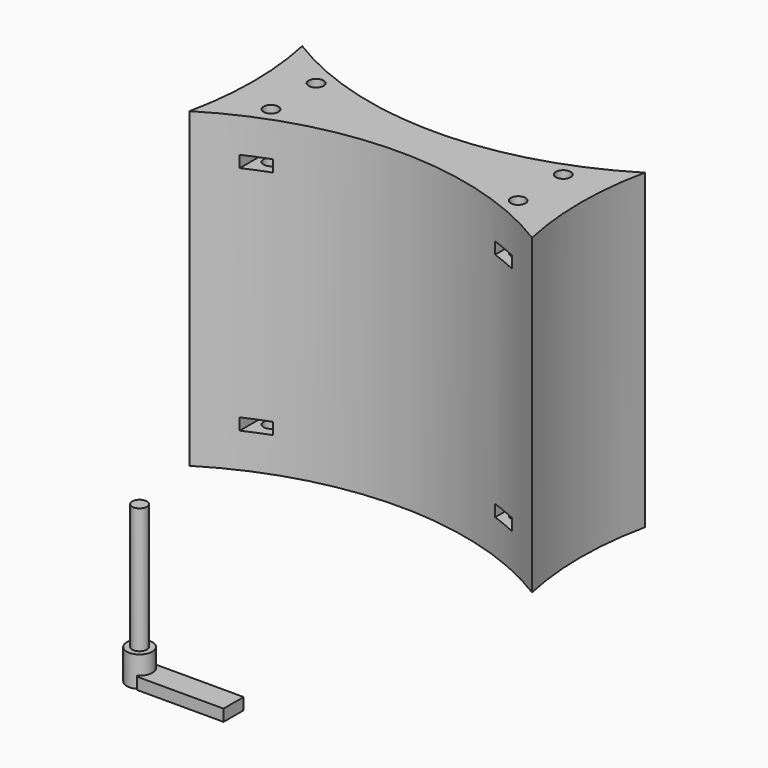
from build123d import *

# Parameters (mm, degrees)
CYLINDER_R               = 2.95
CYLINDER_DEPTH           = 7
CYLINDER001_R            = 1.7
CYLINDER001_DEPTH        = 30
PAD002_DEPTH             = 2.7
CLONE171_ROLL_ANGLE      = 180
CLONE171_PLACEMENT_ANGLE = 90
CLONE167_PLACEMENT_ANGLE = -90
CLONE168_PLACEMENT_ANGLE = 90
CLONE172_ROLL_ANGLE      = 180
CLONE172_PLACEMENT_ANGLE = 90
CLONE177_PLACEMENT_ANGLE = 180
CLONE169_ROLL_ANGLE      = 180
CLONE169_PLACEMENT_ANGLE = -90
CLONE170_ROLL_ANGLE      = 180
CLONE170_PLACEMENT_ANGLE = -90
CLONE178_PLACEMENT_ANGLE = 180
CLONE180_PLACEMENT_ANGLE = 180
CLONE179_PLACEMENT_ANGLE = 180
CLONE166_PLACEMENT_ANGLE = -90
CLONE165_PLACEMENT_ANGLE = 90
PAD021_DEPTH             = 72


with BuildPart() as m3bolthead:
    # Cylinder → Cylinder (new body)
    with BuildSketch(Plane.XY):
        Circle(CYLINDER_R)
    extrude(amount=CYLINDER_DEPTH)


with BuildPart() as m3bolt:
    # Cylinder001 → Cylinder001 (new body)
    with BuildSketch(Plane.XY.offset(6)):
        Circle(CYLINDER001_R)
    extrude(amount=CYLINDER001_DEPTH)

    # Fusion: union M3BoltHead
    add(m3bolthead.part)


with BuildPart() as m3nuthousing:
    # Sketch003 → Pad002 (new body)
    with BuildSketch(Plane.XY):
        Polygon((0, 0), (1.674316, 2.9), (21.674316, 2.9), (21.674316, -2.9), (1.674316, -2.9), align=None)
    extrude(amount=PAD002_DEPTH)


with BuildPart() as clone_of_m3nuthousing016:
    # Clone171 base: copy of M3NutHousing
    add(m3nuthousing.part)


with BuildPart() as clone_of_m3nuthousing016_1:
    # Clone171 roll: moved
    add(clone_of_m3nuthousing016.part.rotate(Axis((0, 0, 0), (1, 0, 0)), CLONE171_ROLL_ANGLE))


with BuildPart() as clone_of_m3nuthousing016_2:
    # Clone171 placement: moved
    add(clone_of_m3nuthousing016_1.part.moved(Location((28.5, 83, 69))).rotate(Axis((28.5, 83, 69), (0, 0, 1)), CLONE171_PLACEMENT_ANGLE))


with BuildPart() as clone_of_m3nuthousing012:
    # Clone167 base: copy of M3NutHousing
    add(m3nuthousing.part)


with BuildPart() as clone_of_m3nuthousing012_1:
    # Clone167 placement: moved
    add(clone_of_m3nuthousing012.part.moved(Location((28.5, 77, 13))).rotate(Axis((28.5, 77, 13), (0, 0, 1)), CLONE167_PLACEMENT_ANGLE))


with BuildPart() as clone_of_m3nuthousing013:
    # Clone168 base: copy of M3NutHousing
    add(m3nuthousing.part)


with BuildPart() as clone_of_m3nuthousing013_1:
    # Clone168 placement: moved
    add(clone_of_m3nuthousing013.part.moved(Location((-28.5, 83, 13))).rotate(Axis((-28.5, 83, 13), (0, 0, 1)), CLONE168_PLACEMENT_ANGLE))


with BuildPart() as clone_of_m3nuthousing017:
    # Clone172 base: copy of M3NutHousing
    add(m3nuthousing.part)


with BuildPart() as clone_of_m3nuthousing017_1:
    # Clone172 roll: moved
    add(clone_of_m3nuthousing017.part.rotate(Axis((0, 0, 0), (1, 0, 0)), CLONE172_ROLL_ANGLE))


with BuildPart() as clone_of_m3nuthousing017_2:
    # Clone172 placement: moved
    add(clone_of_m3nuthousing017_1.part.moved(Location((-28.5, 83, 69))).rotate(Axis((-28.5, 83, 69), (0, 0, 1)), CLONE172_PLACEMENT_ANGLE))


with BuildPart() as clone_of_m3bolt046:
    # Clone174 base: copy of M3Bolt
    add(m3bolt.part)


with BuildPart() as clone_of_m3bolt046_1:
    # Clone174 placement: moved
    add(clone_of_m3bolt046.part.moved(Location((-28.5, 73.5, -7))))


with BuildPart() as clone_of_m3bolt049:
    # Clone177 base: copy of M3Bolt
    add(m3bolt.part)


with BuildPart() as clone_of_m3bolt049_1:
    # Clone177 placement: moved
    add(clone_of_m3bolt049.part.moved(Location((28.5, 73.5, 89))).rotate(Axis((28.5, 73.5, 89), (0, 1, 0)), CLONE177_PLACEMENT_ANGLE))


with BuildPart() as clone_of_m3nuthousing014:
    # Clone169 base: copy of M3NutHousing
    add(m3nuthousing.part)


with BuildPart() as clone_of_m3nuthousing014_1:
    # Clone169 roll: moved
    add(clone_of_m3nuthousing014.part.rotate(Axis((0, 0, 0), (1, 0, 0)), CLONE169_ROLL_ANGLE))


with BuildPart() as clone_of_m3nuthousing014_2:
    # Clone169 placement: moved
    add(clone_of_m3nuthousing014_1.part.moved(Location((28.5, 77, 69))).rotate(Axis((28.5, 77, 69), (0, 0, 1)), CLONE169_PLACEMENT_ANGLE))


with BuildPart() as clone_of_m3nuthousing015:
    # Clone170 base: copy of M3NutHousing
    add(m3nuthousing.part)


with BuildPart() as clone_of_m3nuthousing015_1:
    # Clone170 roll: moved
    add(clone_of_m3nuthousing015.part.rotate(Axis((0, 0, 0), (1, 0, 0)), CLONE170_ROLL_ANGLE))


with BuildPart() as clone_of_m3nuthousing015_2:
    # Clone170 placement: moved
    add(clone_of_m3nuthousing015_1.part.moved(Location((-28.5, 77, 69))).rotate(Axis((-28.5, 77, 69), (0, 0, 1)), CLONE170_PLACEMENT_ANGLE))


with BuildPart() as clone_of_m3bolt050:
    # Clone178 base: copy of M3Bolt
    add(m3bolt.part)


with BuildPart() as clone_of_m3bolt050_1:
    # Clone178 placement: moved
    add(clone_of_m3bolt050.part.moved(Location((-28.5, 73.5, 89))).rotate(Axis((-28.5, 73.5, 89), (0, 1, 0)), CLONE178_PLACEMENT_ANGLE))


with BuildPart() as clone_of_m3bolt048:
    # Clone176 base: copy of M3Bolt
    add(m3bolt.part)


with BuildPart() as clone_of_m3bolt048_1:
    # Clone176 placement: moved
    add(clone_of_m3bolt048.part.moved(Location((-28.5, 86.5, -7))))


with BuildPart() as clone_of_m3bolt052:
    # Clone180 base: copy of M3Bolt
    add(m3bolt.part)


with BuildPart() as clone_of_m3bolt052_1:
    # Clone180 placement: moved
    add(clone_of_m3bolt052.part.moved(Location((-28.5, 86.5, 89))).rotate(Axis((-28.5, 86.5, 89), (0, 1, 0)), CLONE180_PLACEMENT_ANGLE))


with BuildPart() as clone_of_m3bolt045:
    # Clone173 base: copy of M3Bolt
    add(m3bolt.part)


with BuildPart() as clone_of_m3bolt045_1:
    # Clone173 placement: moved
    add(clone_of_m3bolt045.part.moved(Location((28.5, 86.5, -7))))


with BuildPart() as clone_of_m3bolt051:
    # Clone179 base: copy of M3Bolt
    add(m3bolt.part)


with BuildPart() as clone_of_m3bolt051_1:
    # Clone179 placement: moved
    add(clone_of_m3bolt051.part.moved(Location((28.5, 86.5, 89))).rotate(Axis((28.5, 86.5, 89), (0, 1, 0)), CLONE179_PLACEMENT_ANGLE))


with BuildPart() as clone_of_m3bolt047:
    # Clone175 base: copy of M3Bolt
    add(m3bolt.part)


with BuildPart() as clone_of_m3bolt047_1:
    # Clone175 placement: moved
    add(clone_of_m3bolt047.part.moved(Location((28.5, 73.5, -7))))


with BuildPart() as clone_of_m3nuthousing011:
    # Clone166 base: copy of M3NutHousing
    add(m3nuthousing.part)


with BuildPart() as clone_of_m3nuthousing011_1:
    # Clone166 placement: moved
    add(clone_of_m3nuthousing011.part.moved(Location((-28.5, 77, 13))).rotate(Axis((-28.5, 77, 13), (0, 0, 1)), CLONE166_PLACEMENT_ANGLE))


with BuildPart() as fusion066:
    # Clone165 base: copy of M3NutHousing
    add(m3nuthousing.part)


with BuildPart() as fusion066_1:
    # Clone165 placement: moved
    add(fusion066.part.moved(Location((28.5, 83, 13))).rotate(Axis((28.5, 83, 13), (0, 0, 1)), CLONE165_PLACEMENT_ANGLE))

    # Fusion066: union Clone of M3NutHousing016, Clone of M3NutHousing012, Clone of M3NutHousing013, Clone of M3NutHousing017, Clone of M3Bolt046, Clone of M3Bolt049, Clone of M3NutHousing014, Clone of M3NutHousing015, Clone of M3Bolt050, Clone of M3Bolt048, Clone of M3Bolt052, Clone of M3Bolt045, Clone of M3Bolt051, Clone of M3Bolt047, Clone of M3NutHousing011
    add(clone_of_m3nuthousing016_2.part)
    add(clone_of_m3nuthousing012_1.part)
    add(clone_of_m3nuthousing013_1.part)
    add(clone_of_m3nuthousing017_2.part)
    add(clone_of_m3bolt046_1.part)
    add(clone_of_m3bolt049_1.part)
    add(clone_of_m3nuthousing014_2.part)
    add(clone_of_m3nuthousing015_2.part)
    add(clone_of_m3bolt050_1.part)
    add(clone_of_m3bolt048_1.part)
    add(clone_of_m3bolt052_1.part)
    add(clone_of_m3bolt045_1.part)
    add(clone_of_m3bolt051_1.part)
    add(clone_of_m3bolt047_1.part)
    add(clone_of_m3nuthousing011_1.part)


with BuildPart() as obj1:
    # Sketch029 → Pad021 (new body)
    with BuildSketch(Plane.XY.offset(5)):
        with BuildLine():
            ThreePointArc((39.5, 63.755392), (0, 75), (-39.5, 63.755392))
            ThreePointArc((-39.5, 63.755392), (-37.772173, 80), (-39.5, 96.244608))
            ThreePointArc((-39.5, 96.244608), (0, 85), (39.5, 96.244608))
            ThreePointArc((39.5, 96.244608), (37.772173, 80), (39.5, 63.755392))
        make_face()
    extrude(amount=PAD021_DEPTH)

    # Cut058: cut Fusion066
    add(fusion066_1.part, mode=Mode.SUBTRACT)


solid = Compound([m3bolt.part, m3nuthousing.part, obj1.part])
